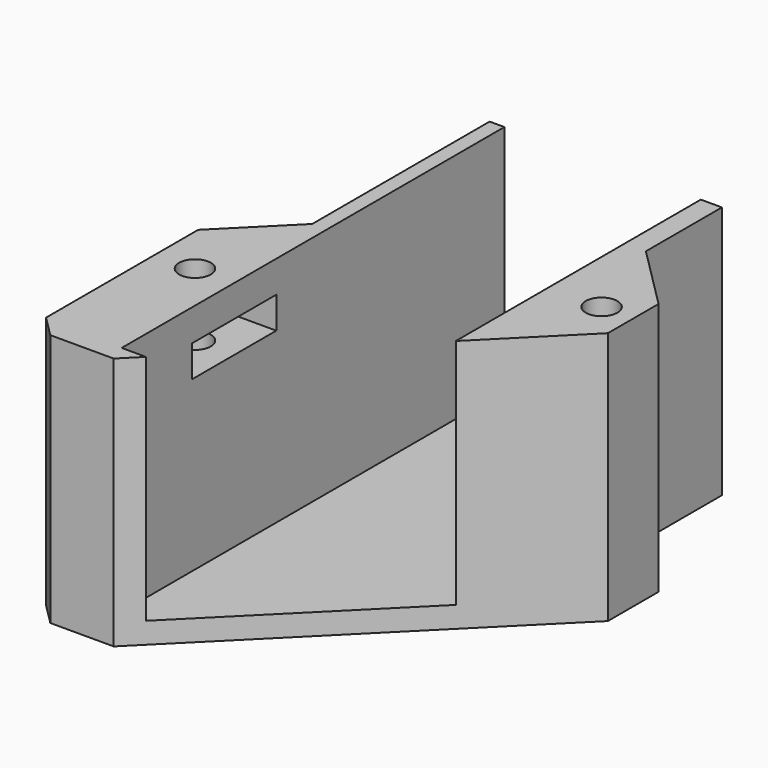
from build123d import *

# Parameters (mm, degrees)
SKETCH_R        = 1.5
PAD_DEPTH       = 2
PAD001_DEPTH    = 22
SKETCH002_R     = 1.5
POCKET_DEPTH    = 32
SKETCH003_R     = 1.5
POCKET001_DEPTH = 15
SKETCH004_W     = 10
SKETCH004_H     = 3
POCKET002_DEPTH = 8


with BuildPart() as part:
    # Sketch → Pad (new body)
    with BuildSketch(Plane.XY):
        Polygon((-6, -2), (0, -2), (20, 18), (26, 24), (26, 30), (20, 36), (20, 45), (-2, 45), (-2, 32.485281), (-8, 26.485281), (-8, 18), (-8, 0), align=None)
        with Locations((-5, 25.242641)):
            Circle(SKETCH_R, mode=Mode.SUBTRACT)
        with Locations((23, 27)):
            Circle(SKETCH_R, mode=Mode.SUBTRACT)
    extrude(amount=PAD_DEPTH)

    # Sketch001 (on Face16 of Pad) → Pad001 (join)
    with BuildSketch(Plane.XY.offset(2)):
        Polygon((-2, 32.485281), (-2, 45), (-0.6, 45), (-0.6, -0.3), (1.7, -0.3), (0, -2), (-6, -2), (-8, 0), (-8, 18), (-2, 24), align=None)
        Polygon((20, 45), (18, 45), (18, 16), (26, 24), (26, 30), (20, 36), align=None)
    extrude(amount=PAD001_DEPTH)

    # Sketch002 (on Face31 of Pad001) → Pocket (cut)
    with BuildSketch(Plane(origin=(0, 0, 2), x_dir=(1, 0, 0), z_dir=(0, 0, -1))):
        with Locations((23, -27)):
            Circle(SKETCH002_R)
    extrude(amount=-POCKET_DEPTH, mode=Mode.SUBTRACT)

    # Sketch003 (on Face19 of Pocket) → Pocket001 (cut)
    with BuildSketch(Plane.XY.offset(24)):
        with Locations((-4.3, 13)):
            Circle(SKETCH003_R)
    extrude(amount=-POCKET001_DEPTH, mode=Mode.SUBTRACT)

    # Sketch004 (on Face9 of Pocket001) → Pocket002 (cut)
    with BuildSketch(Plane(origin=(-8, 0, 0), x_dir=(0, -1, 0), z_dir=(-1, 0, 0))):
        with Locations((-13, 19.5)):
            Rectangle(SKETCH004_W, SKETCH004_H)
    extrude(amount=-POCKET002_DEPTH, mode=Mode.SUBTRACT)


solid = part.part
